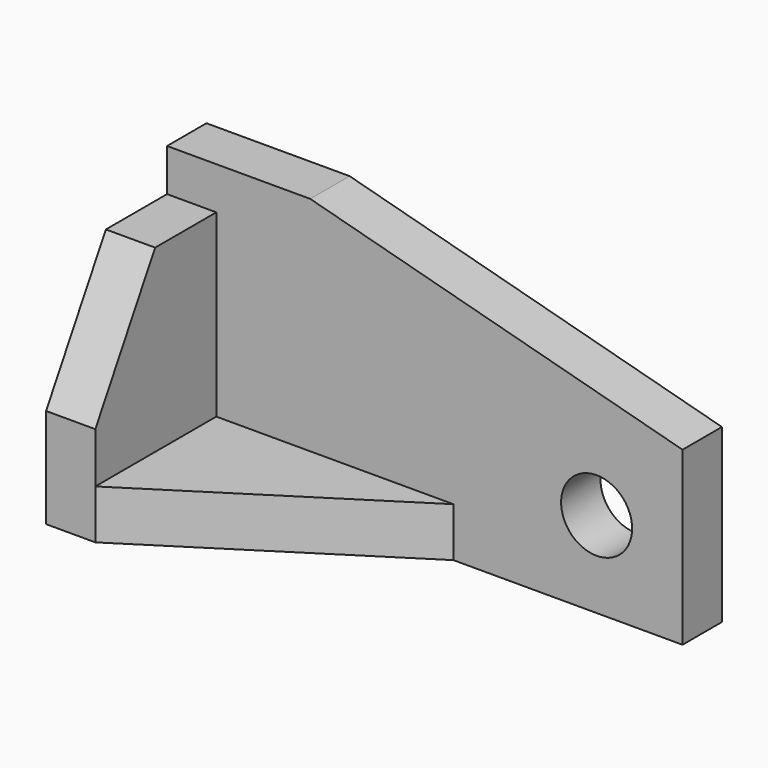
from build123d import *

# Parameters (mm, degrees)
F1_DEPTH = 60.198
F3_DEPTH = 10.923
F0_W     = 10.922
F0_H     = 33.528
F4_DEPTH = 50.8
F6_DEPTH = 10.923
F7_DEPTH = 10.922
F2_R     = 7.874
F8_DEPTH = 25.4


with BuildPart() as f1:
    # F0 (on Top) → F1 (new body)
    with BuildSketch(Plane.XY):
        Polygon((-0.752221, 24.161927), (-32.502221, 24.161927), (-32.502221, 13.239927), (-21.580221, 13.239927), (-0.752221, 13.239927), align=None)
        Polygon((81.797779, 24.161927), (-0.752221, 24.161927), (-0.752221, 13.239927), (30.997779, 13.239927), (81.797779, 13.239927), align=None)
    extrude(amount=F1_DEPTH)

    # F2 (on face) → F3 (cut, through all)
    with BuildSketch(Plane.XZ.offset(-13.239927)):
        Polygon((81.797779, 60.198), (-0.752221, 60.198), (81.797779, 38.078794), align=None)
    extrude(amount=-F3_DEPTH, mode=Mode.SUBTRACT)

    # F0 (on Top) → F4 (join)
    with BuildSketch(Plane.XY):
        with Locations((-27.041221, -3.524073)):
            Rectangle(F0_W, F0_H)
    extrude(amount=F4_DEPTH)

    # F5 (on face) → F6 (cut, through all)
    with BuildSketch(Plane.YZ.offset(-21.580221)):
        Polygon((-20.288073, 50.8), (-20.288073, 22.098), (-3.716965, 50.8), align=None)
    extrude(amount=-F6_DEPTH, mode=Mode.SUBTRACT)

    # F0 (on Top) → F7 (join)
    with BuildSketch(Plane.XY):
        Polygon((30.997779, 13.239927), (-0.752221, 13.239927), (-21.580221, 13.239927), (-21.580221, -20.288073), align=None)
    extrude(amount=F7_DEPTH)

    # F2 (on face) → F8 (cut)
    with BuildSketch(Plane.XZ.offset(-13.239927)):
        with Locations((62.747779, 19.05)):
            Circle(F2_R)
    extrude(amount=-F8_DEPTH, mode=Mode.SUBTRACT)


solid = f1.part
